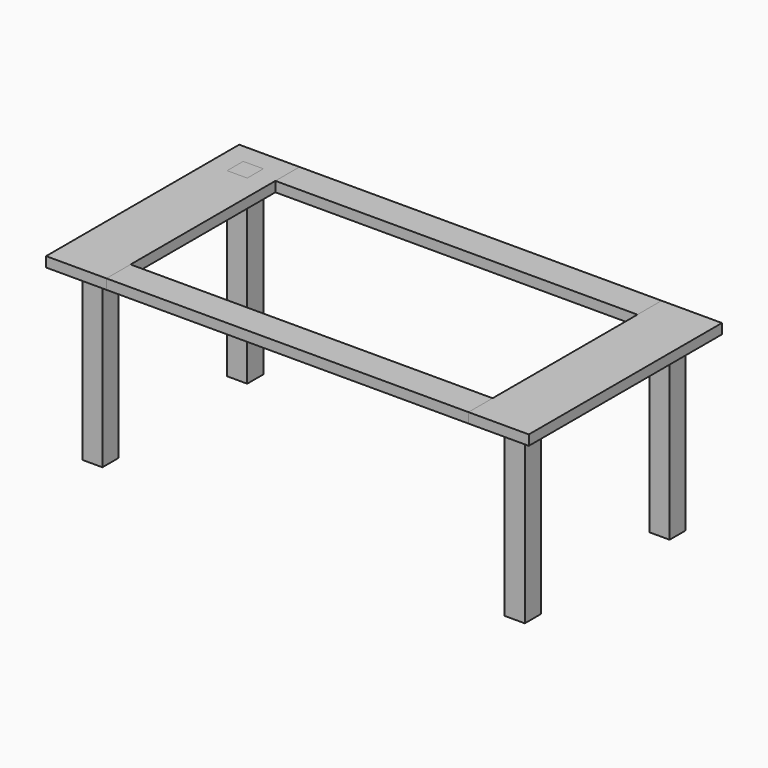
from build123d import *

# Parameters (mm, degrees)
F1_W     = 50.8
F1_H     = 50.8
F2_DEPTH = 25.4
F0_W     = 50.8
F0_H     = 50.8
F3_DEPTH = 25.4
F0_W_2   = 914.4
F0_H_2   = 76.2
F4_DEPTH = 25.4
F5_DEPTH = 25.4
F6_DEPTH = 457.2
F7_DEPTH = 457.2
F8_DEPTH = 457.2
F9_DEPTH = 457.2


with BuildPart() as f2:
    # F1 (on face) → F2 (new body)
    with BuildSketch(Plane.XY):
        Polygon((-457.2, -304.8), (-457.2, -228.6), (-457.2, 228.6), (-457.2, 304.8), (-609.6, 304.8), (-609.6, -304.8), align=None)
        with Locations((-533.4, -228.6)):
            Rectangle(F1_W, F1_H, mode=Mode.SUBTRACT)
        with Locations((-533.4, 228.6)):
            Rectangle(F1_W, F1_H, mode=Mode.SUBTRACT)
    extrude(amount=-F2_DEPTH)

    # F0 (on Top) → F7 (join)
    with BuildSketch(Plane.XY):
        with Locations((-533.4, -228.6)):
            Rectangle(F0_W, F0_H)
    extrude(amount=-F7_DEPTH)


with BuildPart() as f3:
    # F0 (on Top) → F3 (new body)
    with BuildSketch(Plane.XY):
        Polygon((457.2, 304.8), (457.2, 228.6), (457.2, -228.6), (457.2, -304.8), (609.6, -304.8), (609.6, 304.8), align=None)
        with Locations((533.4, -228.6)):
            Rectangle(F0_W, F0_H, mode=Mode.SUBTRACT)
        with Locations((533.4, 228.6)):
            Rectangle(F0_W, F0_H, mode=Mode.SUBTRACT)
    extrude(amount=-F3_DEPTH)

    # F0 (on Top) → F8 (join)
    with BuildSketch(Plane.XY):
        with Locations((533.4, -228.6)):
            Rectangle(F0_W, F0_H)
    extrude(amount=-F8_DEPTH)

    # F0 (on Top) → F9 (join)
    with BuildSketch(Plane.XY):
        with Locations((533.4, 228.6)):
            Rectangle(F0_W, F0_H)
    extrude(amount=-F9_DEPTH)


with BuildPart() as f4:
    # F0 (on Top) → F4 (new body)
    with BuildSketch(Plane.XY):
        with Locations((0, 266.7)):
            Rectangle(F0_W_2, F0_H_2)
    extrude(amount=-F4_DEPTH)


with BuildPart() as f5:
    # F0 (on Top) → F5 (new body)
    with BuildSketch(Plane.XY):
        with Locations((0, -266.7)):
            Rectangle(F0_W_2, F0_H_2)
    extrude(amount=-F5_DEPTH)


with BuildPart() as f6:
    # F0 (on Top) → F6 (new body)
    with BuildSketch(Plane.XY):
        with Locations((-533.4, 228.6)):
            Rectangle(F0_W, F0_H)
    extrude(amount=-F6_DEPTH)


solid = Compound([f2.part, f3.part, f4.part, f5.part, f6.part])
